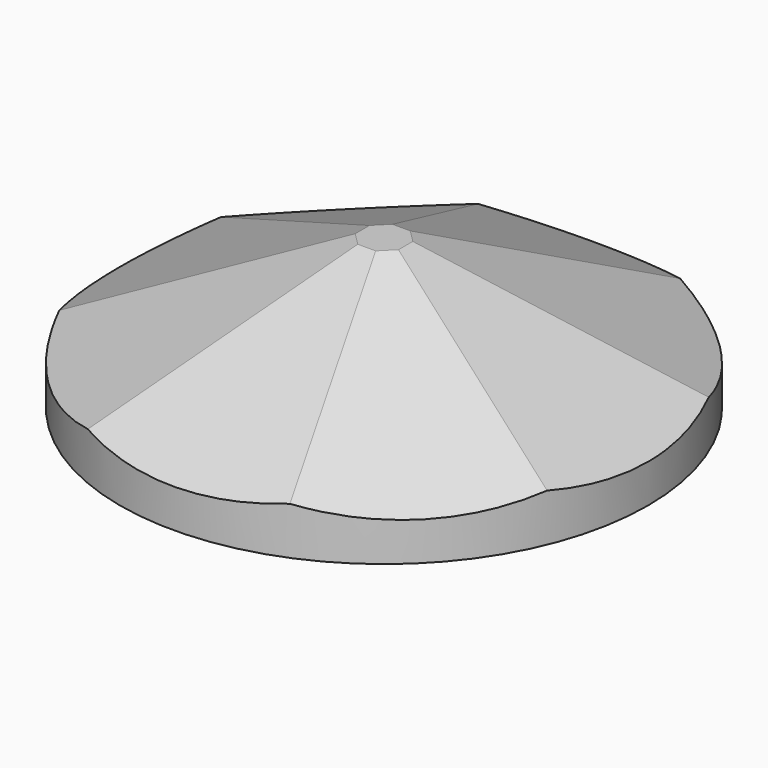
from build123d import *

# Parameters (mm, degrees)
F4_R     = 22.352
F5_DEPTH = 1.27
F6_R     = 33.967932
F6_R_2   = 22.352
F7_DEPTH = 25.4


with BuildPart() as f3:
    # F0 (on Top) → F3 section 0
    with BuildSketch(Plane.XY):
        Polygon((11.047076, 26.67), (-11.047076, 26.67), (-26.67, 11.047076), (-26.67, -11.047076), (-11.047076, -26.67), (11.047076, -26.67), (26.67, -11.047076), (26.67, 11.047076), align=None)
    # F2 (on offset) → F3 section 1
    with BuildSketch(Plane.XY.offset(11.43)):
        Polygon((0.75823, 1.830529), (-0.75823, 1.830529), (-1.830529, 0.75823), (-1.830529, -0.75823), (-0.75823, -1.830529), (0.75823, -1.830529), (1.830529, -0.75823), (1.830529, 0.75823), align=None)
    loft()

    # F4 (on face) → F5 (join)
    with BuildSketch(Plane(origin=(0, 0, 0), x_dir=(1, 0, 0), z_dir=(0, 0, -1))):
        Circle(F4_R)
    extrude(amount=F5_DEPTH)

    # F6 (on Top) → F7 (cut)
    with BuildSketch(Plane.XY):
        Circle(F6_R)
        Circle(F6_R_2, mode=Mode.SUBTRACT)
    extrude(amount=F7_DEPTH, mode=Mode.SUBTRACT)


solid = f3.part
